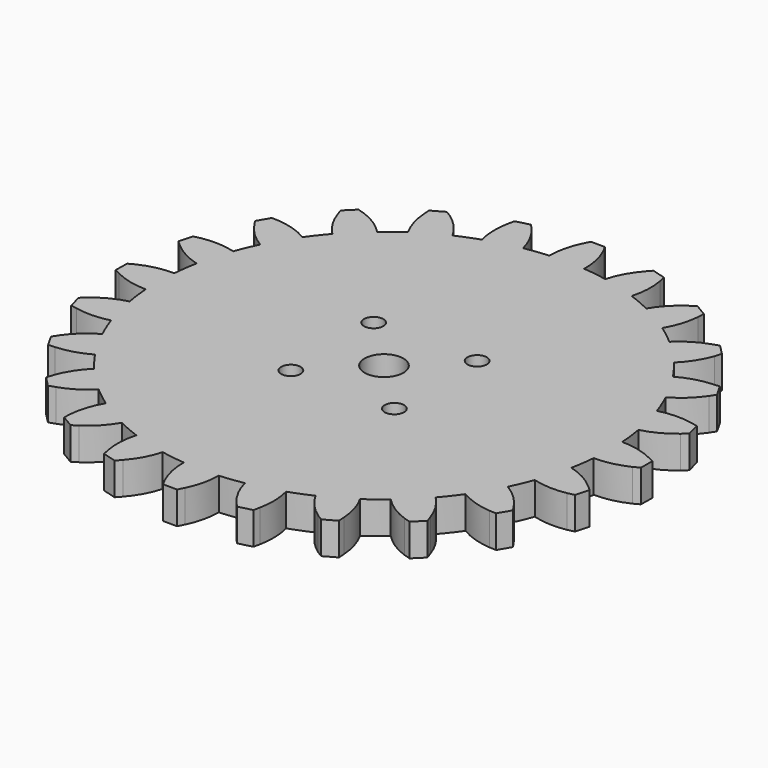
from build123d import *

# Parameters (mm, degrees)
F1_DEPTH = 6.35
F3_D     = 3.81
F5_D     = 7.62


with BuildPart() as f1:
    # F0 (on Top) → F1 (new body)
    with BuildSketch(Plane.XY):
        with BuildLine():
            ThreePointArc((44.280362, -3.879695), (44.40757, -1.941701), (44.45, 0))
            ThreePointArc((44.45, 0), (44.424004, 1.519999), (44.346045, 3.03822))
            ThreePointArc((44.346045, 3.03822), (44.122822, 5.383221), (43.775684, 7.713103))
            ThreePointArc((43.775684, 7.713103), (43.042694, 11.096351), (42.048641, 14.412296))
            ThreePointArc((42.048641, 14.412296), (41.226093, 16.619619), (40.287766, 18.780267))
            ThreePointArc((40.287766, 18.780267), (38.704103, 21.858521), (36.885692, 24.804198))
            ThreePointArc((36.885692, 24.804198), (35.519874, 26.723417), (34.054303, 28.567586))
            ThreePointArc((34.054303, 28.567586), (31.727891, 31.131068), (29.209043, 33.505735))
            ThreePointArc((29.209043, 33.505735), (27.393035, 35.006059), (25.500095, 36.408071))
            ThreePointArc((25.500095, 36.408071), (22.589476, 38.282086), (19.541847, 39.923912))
            ThreePointArc((19.541847, 39.923912), (17.399405, 40.903095), (15.208099, 41.767406))
            ThreePointArc((15.208099, 41.767406), (11.911626, 42.824242), (8.542906, 43.621339))
            ThreePointArc((8.542906, 43.621339), (6.220035, 44.012654), (3.879695, 44.280362))
            ThreePointArc((3.879695, 44.280362), (0.422017, 44.447997), (-3.03822, 44.346045))
            ThreePointArc((-3.03822, 44.346045), (-5.383221, 44.122822), (-7.713103, 43.775684))
            ThreePointArc((-7.713103, 43.775684), (-11.096351, 43.042694), (-14.412296, 42.048641))
            ThreePointArc((-14.412296, 42.048641), (-16.619619, 41.226093), (-18.780267, 40.287766))
            ThreePointArc((-18.780267, 40.287766), (-21.858521, 38.704103), (-24.804198, 36.885692))
            ThreePointArc((-24.804198, 36.885692), (-26.723417, 35.519874), (-28.567586, 34.054303))
            ThreePointArc((-28.567586, 34.054303), (-31.131068, 31.727891), (-33.505735, 29.209043))
            ThreePointArc((-33.505735, 29.209043), (-35.006059, 27.393035), (-36.408071, 25.500095))
            ThreePointArc((-36.408071, 25.500095), (-38.282086, 22.589476), (-39.923912, 19.541847))
            ThreePointArc((-39.923912, 19.541847), (-40.903095, 17.399405), (-41.767406, 15.208099))
            ThreePointArc((-41.767406, 15.208099), (-42.824242, 11.911626), (-43.621339, 8.542906))
            ThreePointArc((-43.621339, 8.542906), (-44.012654, 6.220035), (-44.280362, 3.879695))
            ThreePointArc((-44.280362, 3.879695), (-44.447997, 0.422017), (-44.346045, -3.03822))
            ThreePointArc((-44.346045, -3.03822), (-44.122822, -5.383221), (-43.775684, -7.713103))
            ThreePointArc((-43.775684, -7.713103), (-43.042694, -11.096351), (-42.048641, -14.412296))
            ThreePointArc((-42.048641, -14.412296), (-41.226093, -16.619619), (-40.287766, -18.780267))
            ThreePointArc((-40.287766, -18.780267), (-38.704103, -21.858521), (-36.885692, -24.804198))
            ThreePointArc((-36.885692, -24.804198), (-35.519874, -26.723417), (-34.054303, -28.567586))
            ThreePointArc((-34.054303, -28.567586), (-31.727891, -31.131068), (-29.209043, -33.505735))
            ThreePointArc((-29.209043, -33.505735), (-27.393035, -35.006059), (-25.500095, -36.408071))
            ThreePointArc((-25.500095, -36.408071), (-22.589476, -38.282086), (-19.541847, -39.923912))
            ThreePointArc((-19.541847, -39.923912), (-17.399405, -40.903095), (-15.208099, -41.767406))
            ThreePointArc((-15.208099, -41.767406), (-11.911626, -42.824242), (-8.542906, -43.621339))
            ThreePointArc((-8.542906, -43.621339), (-6.220035, -44.012654), (-3.879695, -44.280362))
            ThreePointArc((-3.879695, -44.280362), (-0.422017, -44.447997), (3.03822, -44.346045))
            ThreePointArc((3.03822, -44.346045), (5.383221, -44.122822), (7.713103, -43.775684))
            ThreePointArc((7.713103, -43.775684), (11.096351, -43.042694), (14.412296, -42.048641))
            ThreePointArc((14.412296, -42.048641), (16.619619, -41.226093), (18.780267, -40.287766))
            ThreePointArc((18.780267, -40.287766), (21.858521, -38.704103), (24.804198, -36.885692))
            ThreePointArc((24.804198, -36.885692), (26.723417, -35.519874), (28.567586, -34.054303))
            ThreePointArc((28.567586, -34.054303), (31.131068, -31.727891), (33.505735, -29.209043))
            ThreePointArc((33.505735, -29.209043), (35.006059, -27.393035), (36.408071, -25.500095))
            ThreePointArc((36.408071, -25.500095), (38.282086, -22.589476), (39.923912, -19.541847))
            ThreePointArc((39.923912, -19.541847), (40.903095, -17.399405), (41.767406, -15.208099))
            ThreePointArc((41.767406, -15.208099), (42.824242, -11.911626), (43.621339, -8.542906))
            ThreePointArc((43.621339, -8.542906), (44.012654, -6.220035), (44.280362, -3.879695))
        make_face()
        with BuildLine():
            ThreePointArc((-43.621339, 8.542906), (-42.824242, 11.911626), (-41.767406, 15.208099))
            ThreePointArc((-41.767406, 15.208099), (-45.05209, 15.741151), (-48.372177, 15.516845))
            Line((-48.372177, 15.516845), (-49.673859, 15.214401))
            Line((-49.673859, 15.214401), (-50.414067, 12.553233))
            Line((-50.414067, 12.553233), (-49.436926, 11.6889))
            ThreePointArc((-49.436926, 11.6889), (-46.709505, 9.782471), (-43.621339, 8.542906))
        make_face()
        with BuildLine():
            ThreePointArc((-39.923912, 19.541847), (-38.282086, 22.589476), (-36.408071, 25.500095))
            ThreePointArc((-36.408071, 25.500095), (-39.442868, 26.865123), (-42.70788, 27.507762))
            Line((-42.70788, 27.507762), (-44.043487, 27.552524))
            Line((-44.043487, 27.552524), (-45.447234, 25.173612))
            Line((-45.447234, 25.173612), (-44.727094, 24.085828))
            ThreePointArc((-44.727094, 24.085828), (-42.586028, 21.538451), (-39.923912, 19.541847))
        make_face()
        with BuildLine():
            ThreePointArc((-33.505735, 29.209043), (-31.131068, 31.727891), (-28.567586, 34.054303))
            ThreePointArc((-28.567586, 34.054303), (-31.145679, 36.158282), (-34.133111, 37.624071))
            Line((-34.133111, 37.624071), (-35.411624, 38.012987))
            Line((-35.411624, 38.012987), (-37.383247, 36.078452))
            Line((-37.383247, 36.078452), (-36.969184, 34.841347))
            ThreePointArc((-36.969184, 34.841347), (-35.560383, 31.826621), (-33.505735, 29.209043))
        make_face()
        with BuildLine():
            ThreePointArc((-24.804198, 36.885692), (-21.858521, 38.704103), (-18.780267, 40.287766))
            ThreePointArc((-18.780267, 40.287766), (-20.725964, 42.987313), (-23.232228, 45.176361))
            Line((-23.232228, 45.176361), (-24.366517, 45.882929))
            Line((-24.366517, 45.882929), (-26.771653, 44.524605))
            Line((-26.771653, 44.524605), (-26.691885, 43.222486))
            ThreePointArc((-26.691885, 43.222486), (-26.111356, 39.94586), (-24.804198, 36.885692))
        make_face()
        with BuildLine():
            ThreePointArc((-14.412296, 42.048641), (-11.096351, 43.042694), (-7.713103, 43.775684))
            ThreePointArc((-7.713103, 43.775684), (-8.893808, 46.88683), (-10.748106, 49.649957))
            Line((-10.748106, 49.649957), (-11.660872, 50.626025))
            Line((-11.660872, 50.626025), (-14.335615, 49.936479))
            Line((-14.335615, 49.936479), (-14.595579, 48.658083))
            ThreePointArc((-14.595579, 48.658083), (-14.882884, 45.342854), (-14.412296, 42.048641))
        make_face()
        with BuildLine():
            ThreePointArc((-3.03822, 44.346045), (0.422017, 44.447997), (3.879695, 44.280362))
            ThreePointArc((3.879695, 44.280362), (3.544445, 47.591087), (2.468481, 50.73999))
            Line((2.468481, 50.73999), (1.839442, 51.91904))
            Line((1.839442, 51.91904), (-0.922629, 51.945265))
            Line((-0.922629, 51.945265), (-1.504608, 50.777713))
            ThreePointArc((-1.504608, 50.777713), (-2.640168, 47.649808), (-3.03822, 44.346045))
        make_face()
        with BuildLine():
            ThreePointArc((8.542906, 43.621339), (11.911626, 42.824242), (15.208099, 41.767406))
            ThreePointArc((15.208099, 41.767406), (15.741151, 45.05209), (15.516845, 48.372177))
            Line((15.516845, 48.372177), (15.214401, 49.673859))
            Line((15.214401, 49.673859), (12.553233, 50.414067))
            Line((12.553233, 50.414067), (11.6889, 49.436926))
            ThreePointArc((11.6889, 49.436926), (9.782471, 46.709505), (8.542906, 43.621339))
        make_face()
        with BuildLine():
            ThreePointArc((19.541847, 39.923912), (22.589476, 38.282086), (25.500095, 36.408071))
            ThreePointArc((25.500095, 36.408071), (26.865123, 39.442868), (27.507762, 42.70788))
            Line((27.507762, 42.70788), (27.552524, 44.043487))
            Line((27.552524, 44.043487), (25.173612, 45.447234))
            Line((25.173612, 45.447234), (24.085828, 44.727094))
            ThreePointArc((24.085828, 44.727094), (21.538451, 42.586028), (19.541847, 39.923912))
        make_face()
        with BuildLine():
            ThreePointArc((29.209043, 33.505735), (31.727891, 31.131068), (34.054303, 28.567586))
            ThreePointArc((34.054303, 28.567586), (36.158282, 31.145679), (37.624071, 34.133111))
            Line((37.624071, 34.133111), (38.012987, 35.411624))
            Line((38.012987, 35.411624), (36.078452, 37.383247))
            Line((36.078452, 37.383247), (34.841347, 36.969184))
            ThreePointArc((34.841347, 36.969184), (31.826621, 35.560383), (29.209043, 33.505735))
        make_face()
        with BuildLine():
            ThreePointArc((36.885692, 24.804198), (38.704103, 21.858521), (40.287766, 18.780267))
            ThreePointArc((40.287766, 18.780267), (42.987313, 20.725964), (45.176361, 23.232228))
            Line((45.176361, 23.232228), (45.882929, 24.366517))
            Line((45.882929, 24.366517), (44.524605, 26.771653))
            Line((44.524605, 26.771653), (43.222486, 26.691885))
            ThreePointArc((43.222486, 26.691885), (39.94586, 26.111356), (36.885692, 24.804198))
        make_face()
        with BuildLine():
            ThreePointArc((42.048641, 14.412296), (43.042694, 11.096351), (43.775684, 7.713103))
            ThreePointArc((43.775684, 7.713103), (46.88683, 8.893808), (49.649957, 10.748106))
            Line((49.649957, 10.748106), (50.626025, 11.660872))
            Line((50.626025, 11.660872), (49.936479, 14.335615))
            Line((49.936479, 14.335615), (48.658083, 14.595579))
            ThreePointArc((48.658083, 14.595579), (45.342854, 14.882884), (42.048641, 14.412296))
        make_face()
        with BuildLine():
            ThreePointArc((44.346045, 3.03822), (44.424004, 1.519999), (44.45, 0))
            ThreePointArc((44.45, 0), (44.40757, -1.941701), (44.280362, -3.879695))
            ThreePointArc((44.280362, -3.879695), (47.591087, -3.544445), (50.73999, -2.468481))
            Line((50.73999, -2.468481), (51.91904, -1.839442))
            Line((51.91904, -1.839442), (51.945265, 0.922629))
            Line((51.945265, 0.922629), (50.777713, 1.504608))
            ThreePointArc((50.777713, 1.504608), (47.649808, 2.640168), (44.346045, 3.03822))
        make_face()
        with BuildLine():
            ThreePointArc((49.436926, -11.6889), (46.709505, -9.782471), (43.621339, -8.542906))
            ThreePointArc((43.621339, -8.542906), (42.824242, -11.911626), (41.767406, -15.208099))
            ThreePointArc((41.767406, -15.208099), (45.05209, -15.741151), (48.372177, -15.516845))
            Line((48.372177, -15.516845), (49.673859, -15.214401))
            Line((49.673859, -15.214401), (50.414067, -12.553233))
            Line((50.414067, -12.553233), (49.436926, -11.6889))
        make_face()
        with BuildLine():
            ThreePointArc((44.727094, -24.085828), (42.586028, -21.538451), (39.923912, -19.541847))
            ThreePointArc((39.923912, -19.541847), (38.282086, -22.589476), (36.408071, -25.500095))
            ThreePointArc((36.408071, -25.500095), (39.442868, -26.865123), (42.70788, -27.507762))
            Line((42.70788, -27.507762), (44.043487, -27.552524))
            Line((44.043487, -27.552524), (45.447234, -25.173612))
            Line((45.447234, -25.173612), (44.727094, -24.085828))
        make_face()
        with BuildLine():
            ThreePointArc((36.969184, -34.841347), (35.560383, -31.826621), (33.505735, -29.209043))
            ThreePointArc((33.505735, -29.209043), (31.131068, -31.727891), (28.567586, -34.054303))
            ThreePointArc((28.567586, -34.054303), (31.145679, -36.158282), (34.133111, -37.624071))
            Line((34.133111, -37.624071), (35.411624, -38.012987))
            Line((35.411624, -38.012987), (37.383247, -36.078452))
            Line((37.383247, -36.078452), (36.969184, -34.841347))
        make_face()
        with BuildLine():
            ThreePointArc((26.691885, -43.222486), (26.111356, -39.94586), (24.804198, -36.885692))
            ThreePointArc((24.804198, -36.885692), (21.858521, -38.704103), (18.780267, -40.287766))
            ThreePointArc((18.780267, -40.287766), (20.725964, -42.987313), (23.232228, -45.176361))
            Line((23.232228, -45.176361), (24.366517, -45.882929))
            Line((24.366517, -45.882929), (26.771653, -44.524605))
            Line((26.771653, -44.524605), (26.691885, -43.222486))
        make_face()
        with BuildLine():
            ThreePointArc((14.595579, -48.658083), (14.882884, -45.342854), (14.412296, -42.048641))
            ThreePointArc((14.412296, -42.048641), (11.096351, -43.042694), (7.713103, -43.775684))
            ThreePointArc((7.713103, -43.775684), (8.893808, -46.88683), (10.748106, -49.649957))
            Line((10.748106, -49.649957), (11.660872, -50.626025))
            Line((11.660872, -50.626025), (14.335615, -49.936479))
            Line((14.335615, -49.936479), (14.595579, -48.658083))
        make_face()
        with BuildLine():
            ThreePointArc((1.504608, -50.777713), (2.640168, -47.649808), (3.03822, -44.346045))
            ThreePointArc((3.03822, -44.346045), (-0.422017, -44.447997), (-3.879695, -44.280362))
            ThreePointArc((-3.879695, -44.280362), (-3.544445, -47.591087), (-2.468481, -50.73999))
            Line((-2.468481, -50.73999), (-1.839442, -51.91904))
            Line((-1.839442, -51.91904), (0.922629, -51.945265))
            Line((0.922629, -51.945265), (1.504608, -50.777713))
        make_face()
        with BuildLine():
            ThreePointArc((-11.6889, -49.436926), (-9.782471, -46.709505), (-8.542906, -43.621339))
            ThreePointArc((-8.542906, -43.621339), (-11.911626, -42.824242), (-15.208099, -41.767406))
            ThreePointArc((-15.208099, -41.767406), (-15.741151, -45.05209), (-15.516845, -48.372177))
            Line((-15.516845, -48.372177), (-15.214401, -49.673859))
            Line((-15.214401, -49.673859), (-12.553233, -50.414067))
            Line((-12.553233, -50.414067), (-11.6889, -49.436926))
        make_face()
        with BuildLine():
            ThreePointArc((-24.085828, -44.727094), (-21.538451, -42.586028), (-19.541847, -39.923912))
            ThreePointArc((-19.541847, -39.923912), (-22.589476, -38.282086), (-25.500095, -36.408071))
            ThreePointArc((-25.500095, -36.408071), (-26.865123, -39.442868), (-27.507762, -42.70788))
            Line((-27.507762, -42.70788), (-27.552524, -44.043487))
            Line((-27.552524, -44.043487), (-25.173612, -45.447234))
            Line((-25.173612, -45.447234), (-24.085828, -44.727094))
        make_face()
        with BuildLine():
            ThreePointArc((-34.841347, -36.969184), (-31.826621, -35.560383), (-29.209043, -33.505735))
            ThreePointArc((-29.209043, -33.505735), (-31.727891, -31.131068), (-34.054303, -28.567586))
            ThreePointArc((-34.054303, -28.567586), (-36.158282, -31.145679), (-37.624071, -34.133111))
            Line((-37.624071, -34.133111), (-38.012987, -35.411624))
            Line((-38.012987, -35.411624), (-36.078452, -37.383247))
            Line((-36.078452, -37.383247), (-34.841347, -36.969184))
        make_face()
        with BuildLine():
            ThreePointArc((-43.222486, -26.691885), (-39.94586, -26.111356), (-36.885692, -24.804198))
            ThreePointArc((-36.885692, -24.804198), (-38.704103, -21.858521), (-40.287766, -18.780267))
            ThreePointArc((-40.287766, -18.780267), (-42.987313, -20.725964), (-45.176361, -23.232228))
            Line((-45.176361, -23.232228), (-45.882929, -24.366517))
            Line((-45.882929, -24.366517), (-44.524605, -26.771653))
            Line((-44.524605, -26.771653), (-43.222486, -26.691885))
        make_face()
        with BuildLine():
            ThreePointArc((-48.658083, -14.595579), (-45.342854, -14.882884), (-42.048641, -14.412296))
            ThreePointArc((-42.048641, -14.412296), (-43.042694, -11.096351), (-43.775684, -7.713103))
            ThreePointArc((-43.775684, -7.713103), (-46.88683, -8.893808), (-49.649957, -10.748106))
            Line((-49.649957, -10.748106), (-50.626025, -11.660872))
            Line((-50.626025, -11.660872), (-49.936479, -14.335615))
            Line((-49.936479, -14.335615), (-48.658083, -14.595579))
        make_face()
        with BuildLine():
            ThreePointArc((-44.346045, -3.03822), (-44.447997, 0.422017), (-44.280362, 3.879695))
            ThreePointArc((-44.280362, 3.879695), (-47.591087, 3.544445), (-50.73999, 2.468481))
            Line((-50.73999, 2.468481), (-51.91904, 1.839442))
            Line((-51.91904, 1.839442), (-51.945265, -0.922629))
            Line((-51.945265, -0.922629), (-50.777713, -1.504608))
            ThreePointArc((-50.777713, -1.504608), (-47.649808, -2.640168), (-44.346045, -3.03822))
        make_face()
    extrude(amount=F1_DEPTH)

    # F3 (through all)
    with Locations(Plane.XY.offset(6.35)):
        with Locations((-10.16, 10.16), (10.16, 10.16), (-10.16, -10.16), (10.16, -10.16)):
            Hole(F3_D / 2)

    # F5 (through all)
    with Locations(Plane.XY.offset(6.35)):
        with Locations((0, 0)):
            Hole(F5_D / 2)


solid = f1.part
